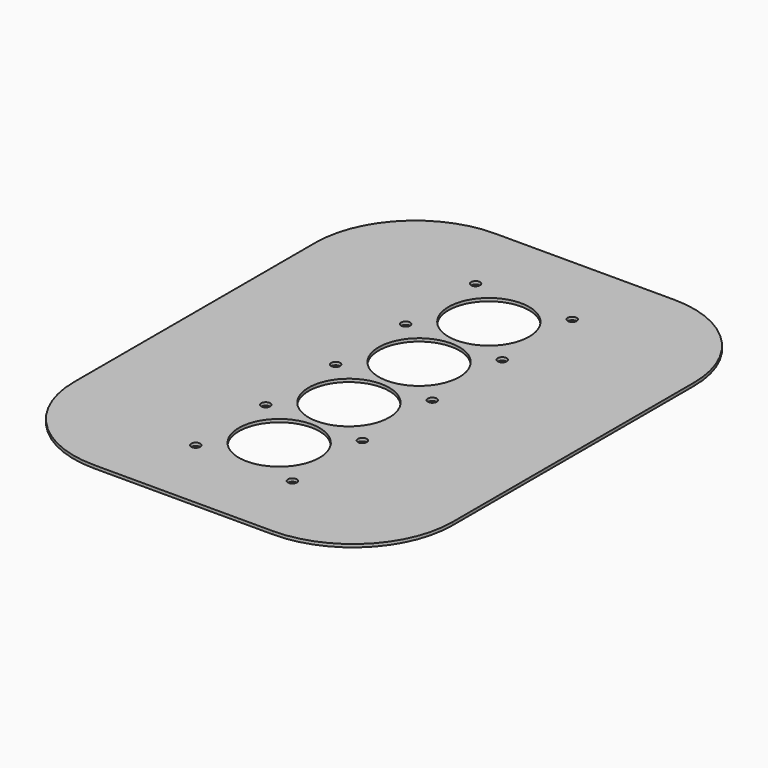
from build123d import *

# Parameters (mm, degrees)
F0_W     = 380
F0_H     = 503
F0_R     = 40.5
F1_DEPTH = 3
F2_R     = 100
F3_D     = 9
F3_DEPTH = 5
F3_TIP   = 2.7038727856


with BuildPart() as f1:
    # F0 (on Top) → F1 (new body)
    with BuildSketch(Plane.XY):
        with Locations((0, -251.5)):
            Rectangle(F0_W, F0_H)
        with Locations((0, -383)):
            Circle(F0_R, mode=Mode.SUBTRACT)
        with Locations((0, -295.5)):
            Circle(F0_R, mode=Mode.SUBTRACT)
        with Locations((0, -207.5)):
            Circle(F0_R, mode=Mode.SUBTRACT)
        with Locations((0, -120)):
            Circle(F0_R, mode=Mode.SUBTRACT)
    extrude(amount=F1_DEPTH)

    # F2
    f2_edges = [f1.edges().sort_by_distance(p)[0] for p in [
        (-190, 0, 1.5),
        (190, 0, 1.5),
        (-190, -503, 1.5),
        (190, -503, 1.5),
    ]]
    fillet(f2_edges, radius=F2_R)

    # F3
    with Locations(Plane(origin=(0, 0, 0), x_dir=(1, 0, 0), z_dir=(0, 0, -1))):
        with Locations((-48.5, 76), (48.5, 76), (-48.5, 163.75), (48.5, 163.75), (-48.5, 251.5), (48.5, 251.5), (-48.5, 339.25), (48.5, 339.25), (-48.5, 427), (48.5, 427)):
            Hole(F3_D / 2, depth=F3_DEPTH)
            with Locations((0, 0, -(F3_DEPTH + F3_TIP / 2))):  # 118° drill point
                Cone(0, F3_D / 2, F3_TIP, mode=Mode.SUBTRACT)


solid = f1.part
